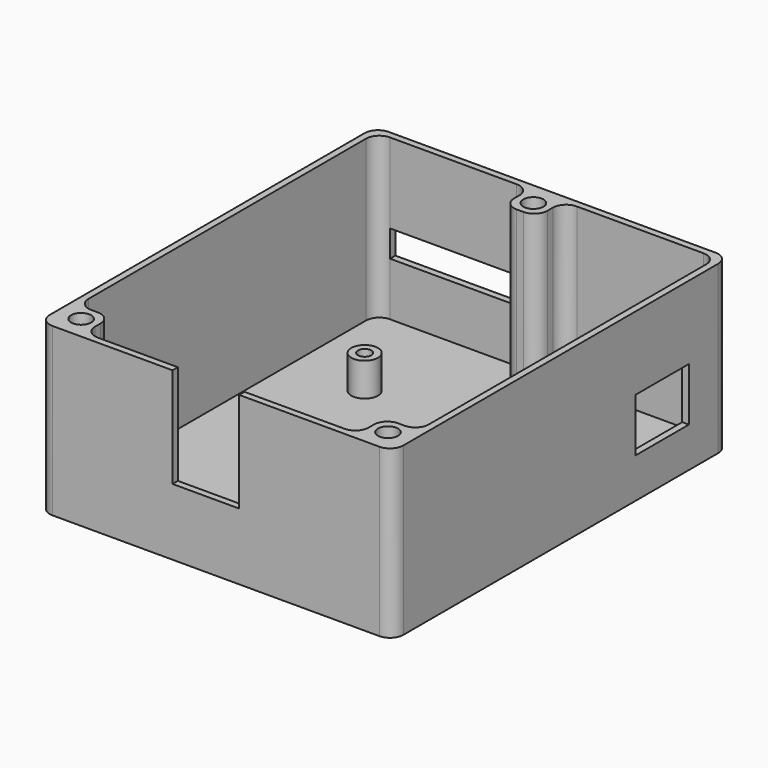
from build123d import *

# Parameters (mm, degrees)
F0_W      = 53
F0_H      = 63
F1_DEPTH  = 25
F2_W      = 51
F2_H      = 61
F3_DEPTH  = 24
F4_W      = 5
F4_H      = 5
F5_DEPTH  = 24
F6_R      = 1.5
F7_DEPTH  = 15
F8_R      = 2
F8_R_2    = 1
F9_DEPTH  = 5
F10_DEPTH = 1
F11_R     = 2
F12_R     = 2
F13_R     = 2
F14_R     = 2
F15_W     = 18.4732184559
F15_H     = 4
F16_DEPTH = 1
F17_W     = 10
F17_H     = 15
F18_DEPTH = 1
F19_W     = 10
F19_H     = 8
F20_DEPTH = 1
F21_DEPTH = 15
F22_R     = 2
F22_R_2   = 1
F23_DEPTH = 5


with BuildPart() as f1:
    # F0 (on Top) → F1 (new body)
    with BuildSketch(Plane.XY):
        with Locations((-36.9371324778, 48.9509678861)):
            Rectangle(F0_W, F0_H)
    extrude(amount=F1_DEPTH)

    # F2 (on face) → F3 (cut)
    with BuildSketch(Plane.XY.offset(25)):
        with Locations((-36.9371324778, 48.9509678861)):
            Rectangle(F2_W, F2_H)
    extrude(amount=-F3_DEPTH, mode=Mode.SUBTRACT)

    # F4 (on face) → F5 (join)
    with BuildSketch(Plane.XY.offset(1)):
        with Locations((-36.9371324778, 76.9509678861)):
            Rectangle(F4_W, F4_H)
        with Locations((-59.9371324778, 20.9509678861)):
            Rectangle(F4_W, F4_H)
        with Locations((-13.9371324778, 20.9509678861)):
            Rectangle(F4_W, F4_H)
    extrude(amount=F5_DEPTH)

    # F6 (on face) → F7 (cut)
    with BuildSketch(Plane.XY.offset(25)):
        with Locations((-36.9371324778, 76.9509678861)):
            Circle(F6_R)
        with Locations((-59.9371324778, 20.9509678861)):
            Circle(F6_R)
        with Locations((-13.9371324778, 20.9509678861)):
            Circle(F6_R)
    extrude(amount=-F7_DEPTH, mode=Mode.SUBTRACT)

    # F8 (on face) → F9 (join)
    with BuildSketch(Plane.XY.offset(1)):
        with Locations((-51.4371324778, 63.4509678861)):
            Circle(F8_R)
        with Locations((-51.4371324778, 63.4509678861)):
            Circle(F8_R_2, mode=Mode.SUBTRACT)
        with Locations((-17.4371324778, 29.4509678861)):
            Circle(F8_R)
        with Locations((-17.4371324778, 29.4509678861)):
            Circle(F8_R_2, mode=Mode.SUBTRACT)
    extrude(amount=F9_DEPTH)

    # F10 (cut): faces of the model
    f10_faces = [f1.faces().sort_by_distance(p)[0] for p in [
        (-51.4371324778, 63.4509678861, 1),
        (-17.4371324778, 29.4509678861, 1),
    ]]
    extrude(f10_faces, amount=-F10_DEPTH, mode=Mode.SUBTRACT)

    # F11
    f11_edges = [f1.edges().sort_by_distance(p)[0] for p in [
        (-63.437132, 80.450968, 12.5),
        (-10.437132, 80.450968, 12.5),
        (-10.437132, 17.450968, 12.5),
        (-63.437132, 17.450968, 12.5),
        (-39.437132, 74.450968, 13),
        (-34.437132, 74.450968, 13),
        (-39.437132, 79.450968, 13),
        (-34.437132, 79.450968, 13),
        (-62.437132, 23.450968, 13),
        (-57.437132, 18.450968, 13),
        (-16.437132, 18.450968, 13),
        (-11.437132, 23.450968, 13),
    ]]
    fillet(f11_edges, radius=F11_R)

    # F12
    f12_edges = [f1.edges().sort_by_distance(p)[0] for p in [
        (-57.437132, 23.450968, 13),
        (-16.437132, 23.450968, 13),
    ]]
    fillet(f12_edges, radius=F12_R)

    # F13
    f13_edges = [f1.edges().sort_by_distance(p)[0] for p in [
        (-62.437132, 79.450968, 13),
    ]]
    fillet(f13_edges, radius=F13_R)

    # F14
    f14_edges = [f1.edges().sort_by_distance(p)[0] for p in [
        (-11.437132, 79.450968, 13),
    ]]
    fillet(f14_edges, radius=F14_R)

    # F15 (on face) → F16 (cut)
    with BuildSketch(Plane.XZ.offset(-79.4509678861)):
        with Locations((-51.2005232498, 11)):
            Rectangle(F15_W, F15_H)
    extrude(amount=-F16_DEPTH, mode=Mode.SUBTRACT)

    # F17 (on face) → F18 (cut)
    with BuildSketch(Plane.XZ.offset(-17.4509678861)):
        with Locations((-38.4371324778, 17.5)):
            Rectangle(F17_W, F17_H)
    extrude(amount=-F18_DEPTH, mode=Mode.SUBTRACT)

    # F19 (on face) → F20 (cut)
    with BuildSketch(Plane.YZ.offset(-10.4371324778)):
        with Locations((67.9509678861, 10)):
            Rectangle(F19_W, F19_H)
    extrude(amount=-F20_DEPTH, mode=Mode.SUBTRACT)

    # F21 (cut): faces of the model
    f21_faces = [f1.faces().sort_by_distance(p)[0] for p in [
        (-59.9371324778, 20.9509678861, 10),
        (-13.9371324778, 20.9509678861, 10),
        (-36.9371324778, 76.9509678861, 10),
    ]]
    extrude(f21_faces, amount=-F21_DEPTH, mode=Mode.SUBTRACT)

    # F22 (on face) → F23 (join)
    with BuildSketch(Plane.XY.offset(1)):
        with Locations((-28.4371324778, 66.9157579541)):
            Circle(F22_R)
        with Locations((-28.4371324778, 66.9157579541)):
            Circle(F22_R_2, mode=Mode.SUBTRACT)
    extrude(amount=F23_DEPTH)


solid = f1.part
